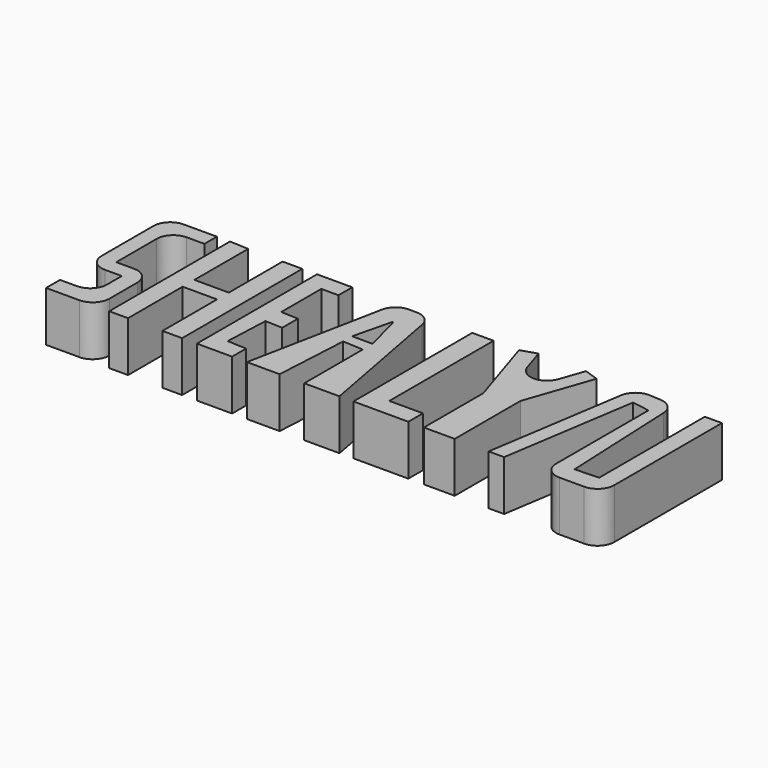
from build123d import *

# Parameters (mm, degrees)
F1_DEPTH = 7.5


with BuildPart() as f1:
    # F0 (on Top) → F1 (new body, symmetric)
    with BuildSketch(Plane.XY):
        with BuildLine():
            Line((-71.971382, 40.540304), (-66.667646, 40.540304))
            Line((-66.667646, 40.540304), (-66.667646, 45.201521))
            Line((-66.667646, 45.201521), (-76.632599, 45.201521))
            ThreePointArc((-76.632599, 45.201521), (-80.168133, 43.737055), (-81.632599, 40.201521))
            Line((-81.632599, 40.201521), (-81.632599, 20.762268))
            ThreePointArc((-81.632599, 20.762268), (-80.168133, 17.226734), (-76.632599, 15.762268))
            Line((-76.632599, 15.762268), (-71.574181, 15.762268))
            Line((-71.574181, 15.762268), (-71.574181, 10.213201))
            ThreePointArc((-71.574181, 10.213201), (-73.038647, 6.677667), (-76.574181, 5.213201))
            Line((-76.574181, 5.213201), (-76.971382, 5.213201))
            Line((-76.971382, 5.213201), (-81.632599, 5.213201))
            Line((-81.632599, 5.213201), (-81.632599, 0))
            Line((-81.632599, 0), (-76.971382, 0))
            Line((-76.971382, 0), (-71.667646, 0))
            ThreePointArc((-71.667646, 0), (-68.132112, 1.464466), (-66.667646, 5))
            Line((-66.667646, 5), (-66.667646, 15.423483))
            ThreePointArc((-66.667646, 15.423483), (-68.132112, 18.959017), (-71.667646, 20.423483))
            Line((-71.667646, 20.423483), (-76.971382, 20.423483))
            Line((-76.971382, 20.423483), (-76.971382, 35.540304))
            ThreePointArc((-76.971382, 35.540304), (-75.506916, 39.075838), (-71.971382, 40.540304))
        make_face()
        Polygon((-57.099886, 44.956192), (-62.742412, 45.201521), (-62.742412, 0), (-57.099886, 0), (-57.099886, 20.423483), (-46.796147, 20.423483), (-46.796147, 0), (-40.908296, 0), (-40.908296, 24.839371), (-40.908296, 44.956192), (-46.796147, 44.956192), (-46.796147, 24.839371), (-57.099886, 24.839371), align=None)
        Polygon((-36.492407, 44.956192), (-36.492407, 0), (-25.943343, 0), (-25.943343, 5.245199), (-31.679373, 5.494594), (-31.095212, 18.930187), (-25.943343, 18.706191), (-25.943343, 24.615375), (-31.095212, 24.839371), (-31.095212, 39.804325), (-25.943343, 39.804325), (-25.943343, 44.956192), align=None)
        Polygon((10.365071, 44.465542), (10.365071, 0), (26.801987, 0), (26.801987, 5.458529), (16.743576, 5.458529), (16.743576, 44.465542), align=None)
        with BuildLine():
            Line((31.463202, 22.232771), (31.463202, 0))
            Line((31.463202, 0), (40.692977, 0))
            Line((40.692977, 0), (40.692977, 24.576596))
            Line((40.692977, 24.576596), (47.561201, 44.465542))
            Line((47.561201, 44.465542), (43.238901, 45.958156))
            Line((43.238901, 45.958156), (40.761999, 38.785564))
            ThreePointArc((40.761999, 38.785564), (35.978854, 35.417959), (31.273743, 38.893755))
            Line((31.273743, 38.893755), (29.013135, 45.958156))
            Line((29.013135, 45.958156), (24.348715, 44.465542))
            Line((24.348715, 44.465542), (31.463202, 22.232771))
        make_face()
        with BuildLine():
            Line((57.265584, 41.481854), (50.844043, 0))
            Line((50.844043, 0), (55.476588, 0))
            Line((55.476588, 0), (61.727664, 40.380689))
            Line((61.727664, 40.380689), (67.035638, 39.558996))
            Line((67.035638, 39.558996), (67.035638, 5))
            ThreePointArc((67.035638, 5), (68.500104, 1.464466), (72.035638, 0))
            Line((72.035638, 0), (79.453858, 0))
            ThreePointArc((79.453858, 0), (82.989392, 1.464466), (84.453858, 5))
            Line((84.453858, 5), (84.453858, 45.274242))
            Line((84.453858, 45.274242), (79.331704, 45.274242))
            Line((79.331704, 45.274242), (79.331704, 5.780474))
            Line((79.331704, 5.780474), (72.187506, 5.458529))
            Line((72.187506, 5.458529), (70.596896, 40.755299))
            ThreePointArc((70.596896, 40.755299), (69.154977, 44.048177), (65.876552, 45.522662))
            Line((65.876552, 45.522662), (64.590423, 45.5934))
            Line((64.590423, 45.5934), (62.481316, 45.709401))
            ThreePointArc((62.481316, 45.709401), (59.05836, 44.601245), (57.265584, 41.481854))
        make_face()
        with BuildLine():
            Line((-13.495309, 40.439617), (-21.527454, 0))
            Line((-21.527454, 0), (-11.710544, 0))
            Line((-11.710544, 0), (-10.487733, 22.232771))
            Line((-10.487733, 22.232771), (-4.354556, 21.895444))
            Line((-4.354556, 21.895444), (-4.354556, 0))
            Line((-4.354556, 0), (6.19451, 0))
            Line((6.19451, 0), (-1.381607, 40.387394))
            ThreePointArc((-1.381607, 40.387394), (-3.102872, 43.31322), (-6.295891, 44.465542))
            Line((-6.295891, 44.465542), (-8.59111, 44.465542))
            ThreePointArc((-8.59111, 44.465542), (-11.763618, 43.330149), (-13.495309, 40.439617))
        make_face()
        with BuildLine():
            Line((-10.434148, 25.794161), (-7.708646, 36.923296))
            ThreePointArc((-7.708646, 36.923296), (-7.53865, 37.058004), (-7.366105, 36.926578))
            Line((-7.366105, 36.926578), (-4.354556, 25.575353))
            Line((-4.354556, 25.575353), (-10.262459, 25.575353))
            ThreePointArc((-10.262459, 25.575353), (-10.401522, 25.642999), (-10.434148, 25.794161))
        make_face(mode=Mode.SUBTRACT)
    extrude(amount=F1_DEPTH, both=True)


solid = f1.part
